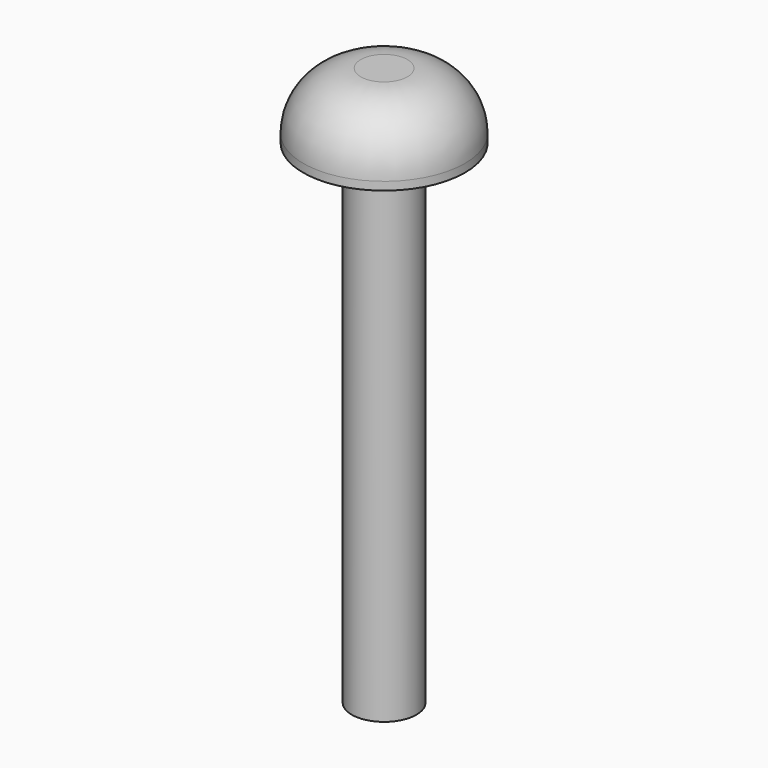
from build123d import *

# Parameters (mm, degrees)
F0_R     = 5
F1_DEPTH = 76.2
F2_R     = 12.5
F2_R_2   = 5
F3_DEPTH = 10.16
F4_R     = 8.89


with BuildPart() as f1:
    # F0 (on Top) → F1 (new body)
    with BuildSketch(Plane.XY):
        Circle(F0_R)
    extrude(amount=F1_DEPTH)

    # F2 (on face) → F3 (join)
    with BuildSketch(Plane.XY.offset(76.2)):
        Circle(F2_R)
        Circle(F2_R_2, mode=Mode.SUBTRACT)
        Circle(F2_R_2)
    extrude(amount=F3_DEPTH)

    # F4
    f4_edges = [f1.edges().sort_by_distance(p)[0] for p in [
        (-12.5, 0, 86.36),
    ]]
    fillet(f4_edges, radius=F4_R)


solid = f1.part
